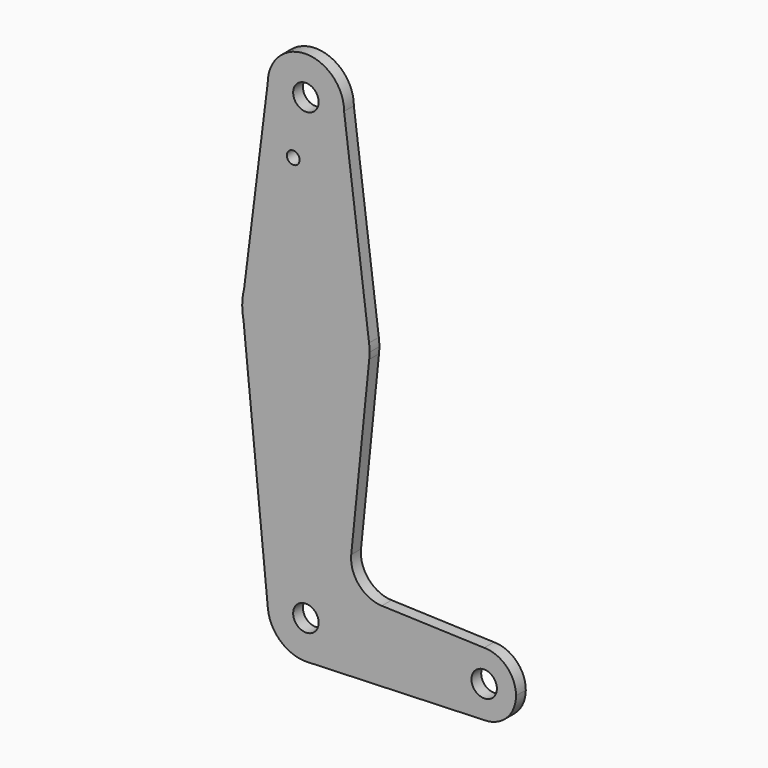
from build123d import *

# Parameters (mm, degrees)
F0_R     = 3.175
F0_R_2   = 1.5875
F1_DEPTH = 3.048


with BuildPart() as f1:
    # F0 (on Front) → F1 (new body)
    with BuildSketch(Plane.XZ):
        with BuildLine():
            ThreePointArc((-28.493177, 57.192845), (-18.968177, 47.667845), (-9.443177, 57.192845))
            ThreePointArc((-9.443177, 57.192845), (-18.968177, 66.717845), (-28.493177, 57.192845))
        make_face()
        with Locations((-18.968177, 57.192845)):
            Circle(F0_R, mode=Mode.SUBTRACT)
        with BuildLine():
            Line((-3.22072, 8.401135), (-9.443177, 57.192845))
            ThreePointArc((-9.443177, 57.192845), (-18.968177, 47.667845), (-28.493177, 57.192845))
            Line((-28.493177, 57.192845), (-34.354715, 10.300538))
            ThreePointArc((-34.354715, 10.300538), (-18.001482, 22.238385), (-3.22072, 8.401135))
        make_face()
        with Locations((-22.122581, 42.918045)):
            Circle(F0_R_2, mode=Mode.SUBTRACT)
        with BuildLine():
            ThreePointArc((-3.093177, 6.392845), (-3.125094, 7.399013), (-3.22072, 8.401135))
            ThreePointArc((-3.22072, 8.401135), (-18.001482, 22.238385), (-34.354715, 10.300538))
            Line((-34.354715, 10.300538), (-34.83982, 6.419699))
            Line((-34.83982, 6.419699), (-34.52216, 3.216489))
            ThreePointArc((-34.52216, 3.216489), (-18.170711, -9.462112), (-3.173974, 4.793226))
            ThreePointArc((-3.173974, 4.793226), (-3.113389, 5.592016), (-3.093177, 6.392845))
        make_face()
        with BuildLine():
            Line((-34.83982, 6.419699), (-34.354715, 10.300538))
            ThreePointArc((-34.354715, 10.300538), (-34.716866, 8.39145), (-34.843065, 6.452419))
            Line((-34.843065, 6.452419), (-34.83982, 6.419699))
        make_face()
        with BuildLine():
            Line((-34.83982, 6.419699), (-34.843065, 6.452419))
            ThreePointArc((-34.843065, 6.452419), (-34.843149, 6.422632), (-34.843177, 6.392845))
            Line((-34.843177, 6.392845), (-34.83982, 6.419699))
        make_face()
        with BuildLine():
            Line((-34.52216, 3.216489), (-34.83982, 6.419699))
            Line((-34.83982, 6.419699), (-34.843177, 6.392845))
            ThreePointArc((-34.843177, 6.392845), (-34.762718, 4.796577), (-34.52216, 3.216489))
        make_face()
        with BuildLine():
            Line((-7.660815, -39.508608), (-3.173974, 4.793226))
            ThreePointArc((-3.173974, 4.793226), (-18.170711, -9.462112), (-34.52216, 3.216489))
            Line((-34.52216, 3.216489), (-28.446682, -58.047132))
            ThreePointArc((-28.446682, -58.047132), (-19.43874, -47.593785), (-9.443177, -57.107155))
            ThreePointArc((-9.443177, -57.107155), (-12.113389, -63.720589), (-18.626906, -66.626039))
            Line((-18.626906, -66.626039), (25.481823, -65.044655))
            ThreePointArc((25.481823, -65.044655), (17.544323, -57.107155), (25.481823, -49.169655))
            Line((25.481823, -49.169655), (-0.035926, -48.254793))
            ThreePointArc((-0.035926, -48.254793), (-5.743719, -45.534058), (-7.660815, -39.508608))
        make_face()
        with BuildLine():
            ThreePointArc((-9.443177, -57.107155), (-19.43874, -47.593785), (-28.446682, -58.047132))
            ThreePointArc((-28.446682, -58.047132), (-25.234888, -64.280296), (-18.626906, -66.626039))
            ThreePointArc((-18.626906, -66.626039), (-12.113389, -63.720589), (-9.443177, -57.107155))
        make_face()
        with Locations((-18.968177, -57.107155)):
            Circle(F0_R, mode=Mode.SUBTRACT)
        with BuildLine():
            ThreePointArc((33.419323, -57.107155), (31.094483, -51.494495), (25.481823, -49.169655))
            ThreePointArc((25.481823, -49.169655), (17.544323, -57.107155), (25.481823, -65.044655))
            ThreePointArc((25.481823, -65.044655), (31.094483, -62.719815), (33.419323, -57.107155))
        make_face()
        with Locations((25.481823, -57.107155)):
            Circle(F0_R, mode=Mode.SUBTRACT)
    extrude(amount=F1_DEPTH)


solid = f1.part
